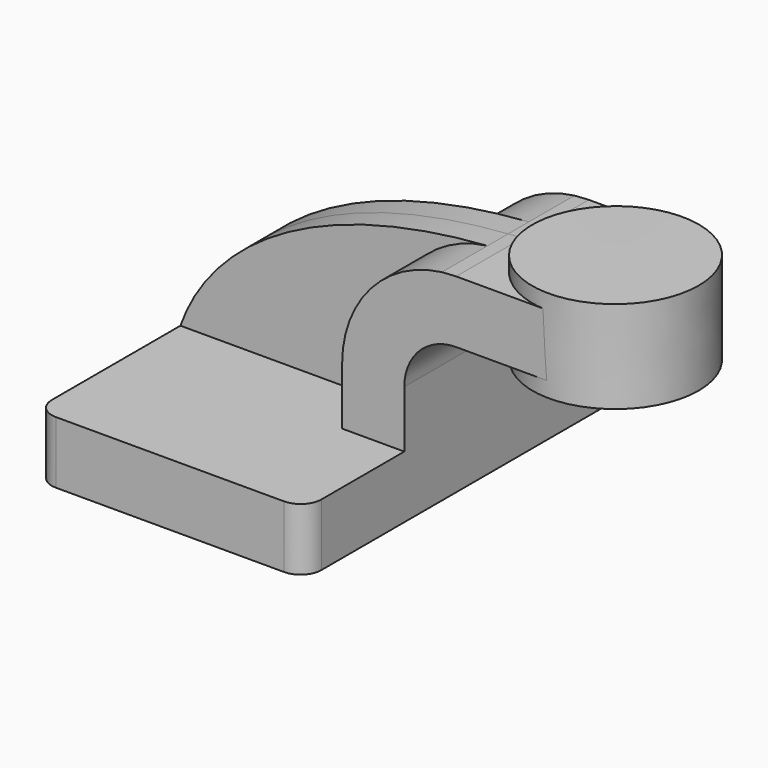
from build123d import *

# Parameters (mm, degrees)
F1_DEPTH = 63.5
F2_DEPTH = 25.4
F3_DEPTH = 7.9375
F0_W     = 3.175
F0_H     = 19.05
F0_W_2   = 25.3145909364
F5_DEPTH = 25.4
F7_R     = 6.35


with BuildPart() as f1:
    # F0 (on Front) → F1 (new body, symmetric)
    with BuildSketch(Plane.XZ):
        Polygon((-41.275, -9.525), (41.275, -9.525), (41.275, 9.525), (22.225, 9.525), (-41.275, 9.525), align=None)
    extrude(amount=F1_DEPTH, both=True)

    # F0 (on Front) → F2 (join, symmetric)
    with BuildSketch(Plane.XZ):
        with BuildLine():
            Line((22.225, 9.525), (41.275, 9.525))
            Line((41.275, 9.525), (41.275, 27.0002))
            ThreePointArc((41.275, 27.0002), (45.9246798487, 38.2255201513), (57.15, 42.8752))
            Line((57.15, 42.8752), (57.15, 61.9252))
            add(Edge.make_bspline(
                [(52.766737565, 61.6490475339), (54.2109947937, 61.7540958796), (55.6720672383, 61.8462382858), (57.15, 61.9252)],
                knots=[108.6209629864, 108.6209629864, 108.6209629864, 108.6209629864, 111.5045361635, 111.5045361635, 111.5045361635, 111.5045361635], degree=3))
            ThreePointArc((52.766737565, 61.6490475339), (30.9503715146, 50.0942488488), (22.225, 27.0002))
            Line((22.225, 27.0002), (22.225, 9.525))
        make_face()
    extrude(amount=F2_DEPTH, both=True)

    # F0 (on Front) → F3 (join, symmetric)
    with BuildSketch(Plane.XZ):
        with BuildLine():
            add(Edge.make_bspline(
                [(-41.275, 9.525), (-32.1805033195, 35.4221321522), (-1.6368101652, 57.6919943344), (52.766737565, 61.6490475339)],
                knots=[0, 0, 0, 0, 108.6209629864, 108.6209629864, 108.6209629864, 108.6209629864], degree=3))
            Line((-41.275, 9.525), (22.225, 9.525))
            Line((22.225, 9.525), (22.225, 27.0002))
            ThreePointArc((22.225, 27.0002), (30.9503715146, 50.0942488488), (52.766737565, 61.6490475339))
        make_face()
    extrude(amount=F3_DEPTH, both=True)



with BuildPart() as f4:
    # F0 (on Front) → F4 (revolve)
    with BuildSketch(Plane.XZ):
        Polygon((85.6395909364, 66.675), (85.725, 38.354), (111.125, 38.354), (111.125, 66.675), align=None)
    revolve(axis=Axis((85.6822954682, 0, 52.5145), (0.0030157366, 0, -0.9999954527)))


with BuildPart() as f1_1:
    add(f1.part)

    add(f4.part)  # F5 merges F4
    # F0 (on Front) → F5 (join, symmetric)
    with BuildSketch(Plane.XZ):
        with Locations((58.7375, 52.4002)):
            Rectangle(F0_W, F0_H)
        with Locations((72.9822954682, 52.4002)):
            Rectangle(F0_W_2, F0_H)
    extrude(amount=F5_DEPTH, both=True)

    # F0 (on Front) → F6 (revolve)
    with BuildSketch(Plane.XZ):
        Polygon((85.6395909364, 66.675), (85.725, 38.354), (111.125, 38.354), (111.125, 66.675), align=None)
    revolve(axis=Axis((85.6822954682, 0, 52.5145), (0.0030157366, 0, -0.9999954527)))

    # F7
    f7_edges = [f1_1.edges().sort_by_distance(p)[0] for p in [
        (-41.275, -63.5, 0),
        (41.275, -63.5, 0),
        (41.275, 63.5, 0),
        (-41.275, 63.5, 0),
    ]]
    fillet(f7_edges, radius=F7_R)


solid = f1_1.part
